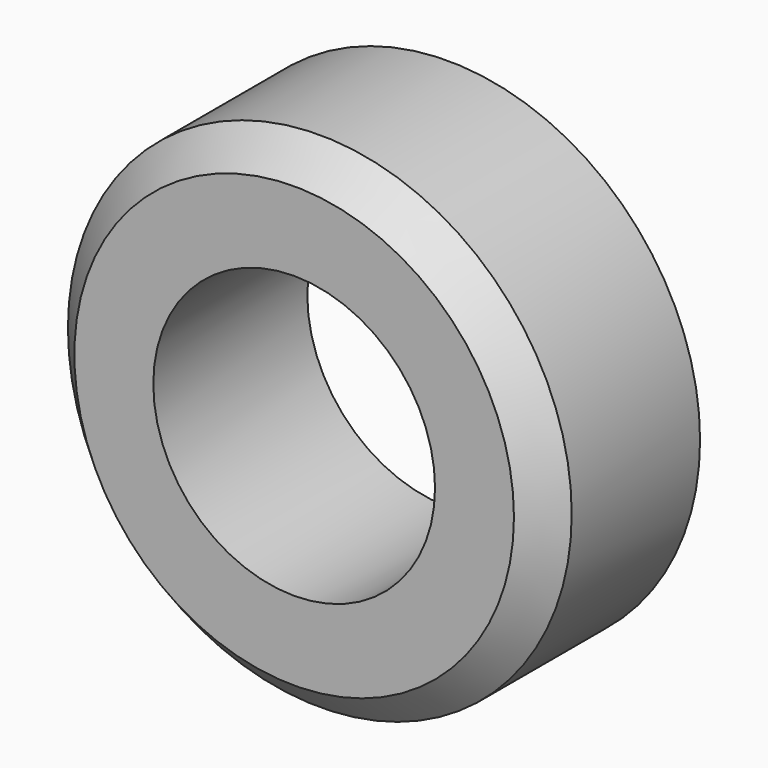
from build123d import *

# Parameters (mm, degrees)
F0_R     = 7.85
F2_DEPTH = 6
F3_D     = 8.78
F4_SIZE  = 1


with BuildPart() as f2:
    # F0 (on Front) → F2 (new body)
    with BuildSketch(Plane.XZ):
        Circle(F0_R)
    extrude(amount=F2_DEPTH)

    # F3 (through all)
    with Locations(Plane(origin=(0, 0, 0), x_dir=(1, 0, 0), z_dir=(0, 1, 0))):
        with Locations((0, 0)):
            Hole(F3_D / 2)

    # F4
    f4_edges = [f2.edges().sort_by_distance(p)[0] for p in [
        (-7.85, -6, 0),
    ]]
    chamfer(f4_edges, length=F4_SIZE)


solid = f2.part
